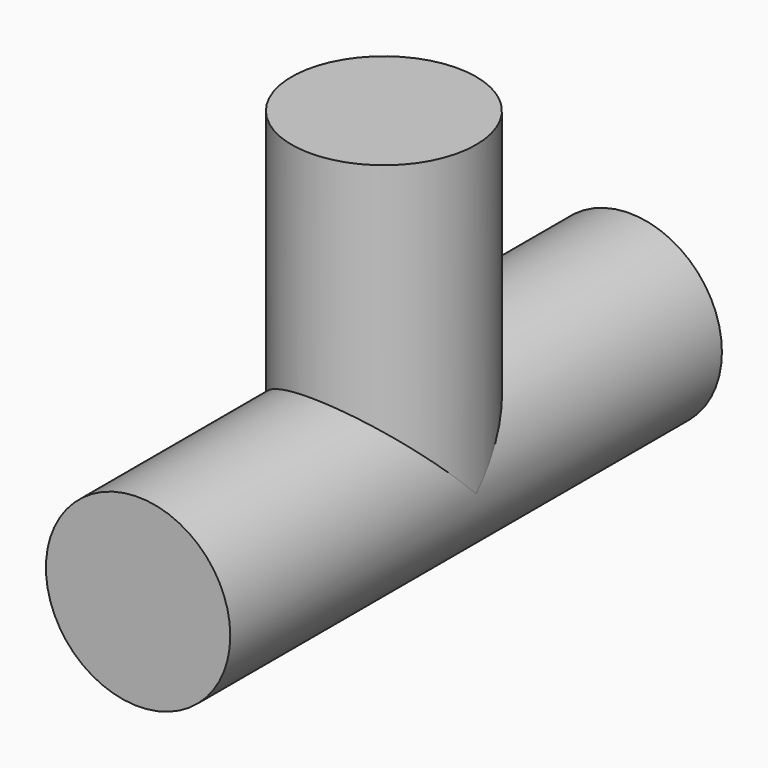
from build123d import *

# Parameters (mm, degrees)
F1_R = 15.24
F3_R = 15.24


with BuildPart() as f2:
    # F2: sweep along a path in F0
    with BuildLine(Plane.YZ) as f2_path:
        Line((-50.8, 0), (0, 0))
        Line((0, 0), (50.8, 0))
    # F1 (on Front) → F2 (sweep)
    with BuildSketch(Plane.XZ):
        Circle(F1_R)
    sweep(path=f2_path.line)

    # F4: sweep along a path in F0
    with BuildLine(Plane.YZ) as f4_path:
        Line((0, 0), (0, 50.8))
    # F3 (on Top) → F4 (sweep)
    with BuildSketch(Plane.XY):
        Circle(F3_R)
    sweep(path=f4_path.line)


solid = f2.part
